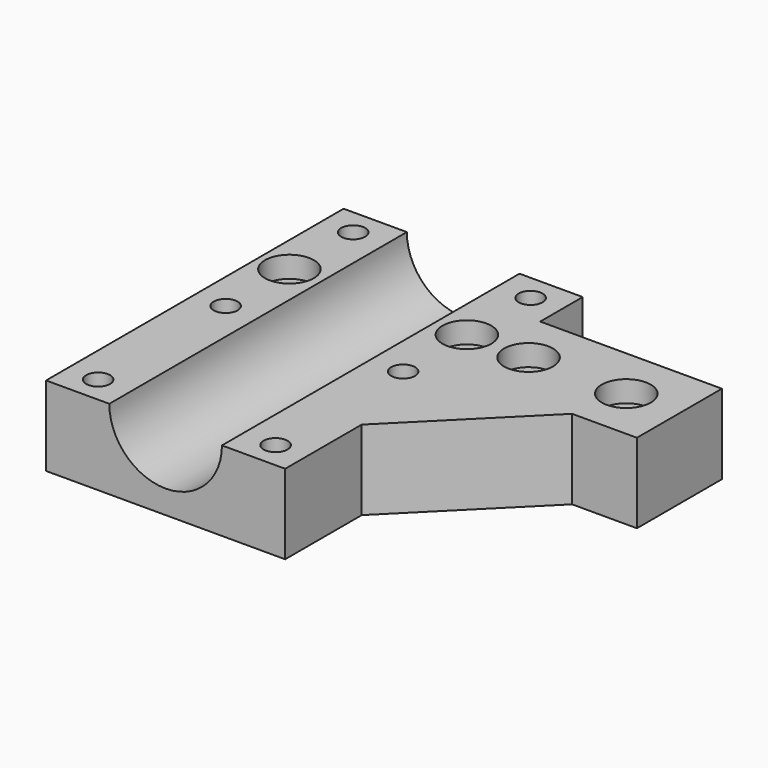
from build123d import *

# Parameters (mm, degrees)
SKETCH_R        = 2.25
PAD_DEPTH       = 15
SKETCH001_R     = 10.6
POCKET_DEPTH    = 70.001
SKETCH002_R     = 4.6
POCKET001_DEPTH = 4
CHAMFER_SIZE    = 22


with BuildPart() as part:
    # Sketch → Pad (new body)
    with BuildSketch(Plane.XY):
        Polygon((-22.5, -35), (22.5, -35), (22.5, 5), (56.7, 5), (56.7, 25), (22.5, 25), (22.5, 35), (-22.5, 35), align=None)
        with Locations((-16.7, 30)):
            Circle(SKETCH_R, mode=Mode.SUBTRACT)
        with Locations((16.7, 30)):
            Circle(SKETCH_R, mode=Mode.SUBTRACT)
        with Locations((-16.7, -30)):
            Circle(SKETCH_R, mode=Mode.SUBTRACT)
        with Locations((16.7, -30)):
            Circle(SKETCH_R, mode=Mode.SUBTRACT)
        with Locations((-16.7, 0)):
            Circle(SKETCH_R, mode=Mode.SUBTRACT)
        with Locations((16.7, 0)):
            Circle(SKETCH_R, mode=Mode.SUBTRACT)
        with Locations((16.7, 15)):
            Circle(SKETCH_R, mode=Mode.SUBTRACT)
        with Locations((46.7, 15)):
            Circle(SKETCH_R, mode=Mode.SUBTRACT)
        with Locations((-16.7, 15)):
            Circle(SKETCH_R, mode=Mode.SUBTRACT)
        with Locations((28.3, 15)):
            Circle(SKETCH_R, mode=Mode.SUBTRACT)
    extrude(amount=PAD_DEPTH)

    # Sketch001 → Pocket (cut, through all)
    with BuildSketch(Plane.XZ.offset(35)):
        with Locations((0, 15)):
            Circle(SKETCH001_R)
    extrude(amount=-POCKET_DEPTH, mode=Mode.SUBTRACT)

    # Sketch002 → Pocket001 (cut)
    with BuildSketch(Plane.XY.offset(15)):
        with Locations((-16.7, 15)):
            Circle(SKETCH002_R)
        with Locations((16.7, 15)):
            Circle(SKETCH002_R)
        with Locations((28.3, 15)):
            Circle(SKETCH002_R)
        with Locations((46.7, 15)):
            Circle(SKETCH002_R)
    extrude(amount=-POCKET001_DEPTH, mode=Mode.SUBTRACT)

    # Chamfer
    chamfer_edges = [part.edges().sort_by_distance(p)[0] for p in [
        (22.5, 5, 7.5),
    ]]
    chamfer(chamfer_edges, length=CHAMFER_SIZE)


solid = part.part
